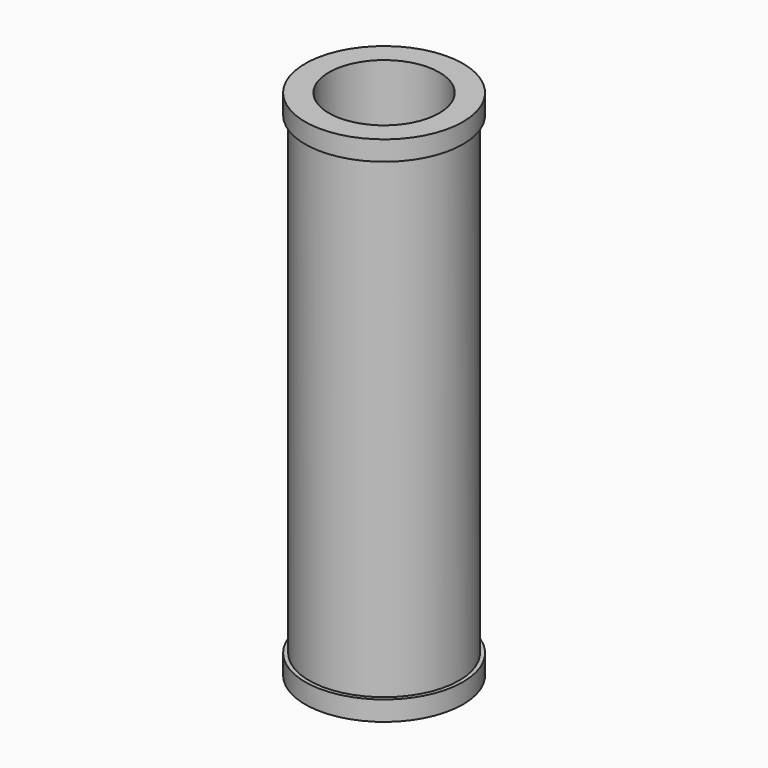
from build123d import *

# Parameters (mm, degrees)
F0_R     = 20
F0_R_2   = 14
F1_DEPTH = 65
F2_T     = -5


with BuildPart() as f1:
    # F0 (on Top) → F1 (new body, symmetric)
    with BuildSketch(Plane.XY):
        with Locations((-23.141849, 0)):
            Circle(F0_R)
        with Locations((-23.141849, 0)):
            Circle(F0_R_2, mode=Mode.SUBTRACT)
    extrude(amount=F1_DEPTH, both=True)

    # F2
    f2_openings = [f1.faces().sort_by_distance(p)[0] for p in [
        (-43.141849, 0, 0),
    ]]
    offset(amount=F2_T, openings=f2_openings)


solid = f1.part
